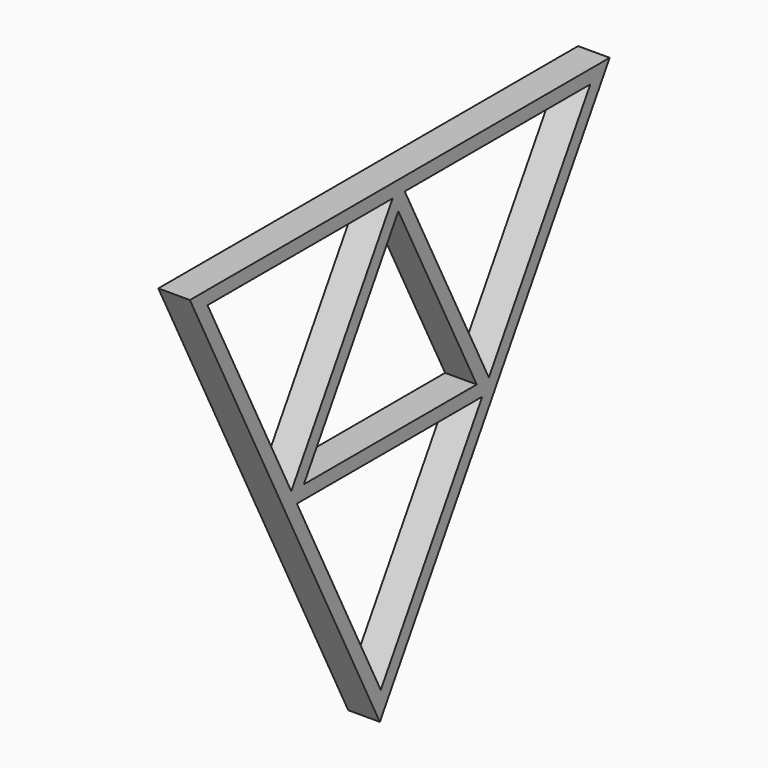
from build123d import *

# Parameters (mm, degrees)
F1_DEPTH = 44.45


with BuildPart() as f1:
    # F0 (on Right) → F1 (new body, symmetric)
    with BuildSketch(Plane.YZ):
        Polygon((764.0575700919, 448.3148115635), (-713.3080299081, 448.3148115635), (-44.7969876964, -869.1456631774), align=None)
        Polygon((315.4655891845, -209.5311159245), (-41.63579525, -791.1770434126), (-336.3281687259, -210.4154258069), (-336.7768887691, -209.5311159245), (-356.558462584, -170.5468060421), (-651.2508360599, 410.2148115635), (0, 410.2148115635), (42.7524333981, 410.2148115635), (695.9584599236, 410.2148115635), (338.8570754891, -171.4311159245), (338.8478055526, -171.4462147762), align=None, mode=Mode.SUBTRACT)
        Polygon((-336.7768887691, -209.5311159245), (-335.7852468754, -209.5311159245), (-312.3937605708, -171.4311159245), (20.2657660654, 370.4039688496), (0, 410.2148115635), (-356.558462584, -170.5468060421), align=None)
        Polygon((296.0876860626, -171.4311159245), (338.8401194607, -171.4311159245), (42.7524333981, 410.2148115635), (0, 410.2148115635), (20.2657660654, 370.4039688496), align=None)
        Polygon((-335.7852468754, -209.5311159245), (315.4655891845, -209.5311159245), (338.8478055526, -171.4462147762), (338.8401194607, -171.4311159245), (296.0876860626, -171.4311159245), (-312.3937605708, -171.4311159245), align=None)
    extrude(amount=F1_DEPTH, both=True)


solid = f1.part
